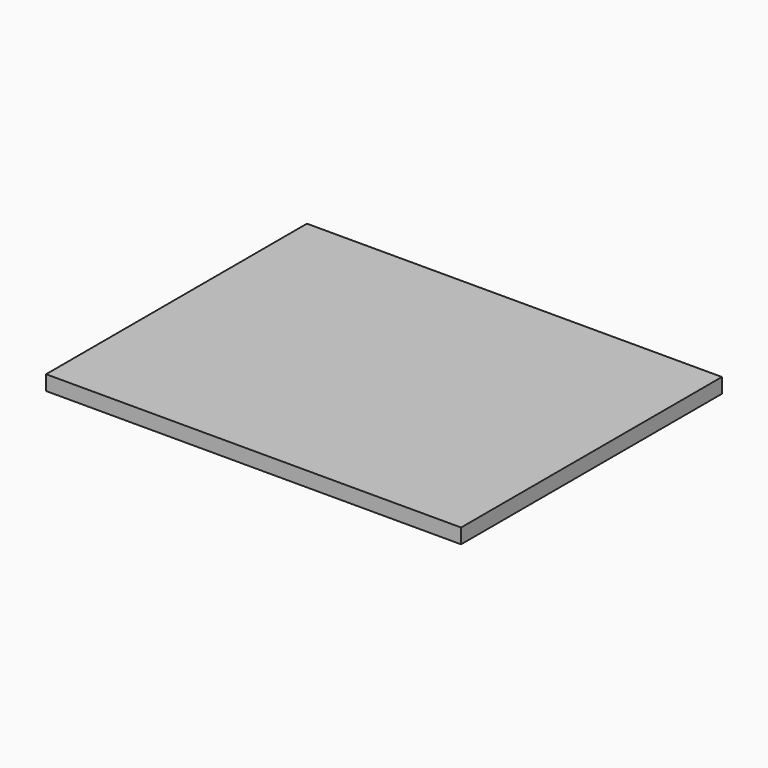
from build123d import *

# Parameters (mm, degrees)
F0_W     = 700
F0_H     = 550
F1_DEPTH = 25
F2_R     = 3
F3_DEPTH = 12
F4_R     = 3
F5_DEPTH = 12


with BuildPart() as f1:
    # F0 (on Top) → F1 (new body)
    with BuildSketch(Plane.XY):
        Rectangle(F0_W, F0_H)
    extrude(amount=F1_DEPTH)

    # F2 (on face) → F3 (cut)
    with BuildSketch(Plane(origin=(0, 0, 0), x_dir=(1, 0, 0), z_dir=(0, 0, -1))):
        with Locations((330, 255)):
            Circle(F2_R)
    extrude(amount=-F3_DEPTH, mode=Mode.SUBTRACT)

    # F4 (on face) → F5 (cut)
    with BuildSketch(Plane(origin=(0, 0, 0), x_dir=(1, 0, 0), z_dir=(0, 0, -1))):
        with Locations((-330, -255)):
            Circle(F4_R)
    extrude(amount=-F5_DEPTH, mode=Mode.SUBTRACT)


solid = f1.part
